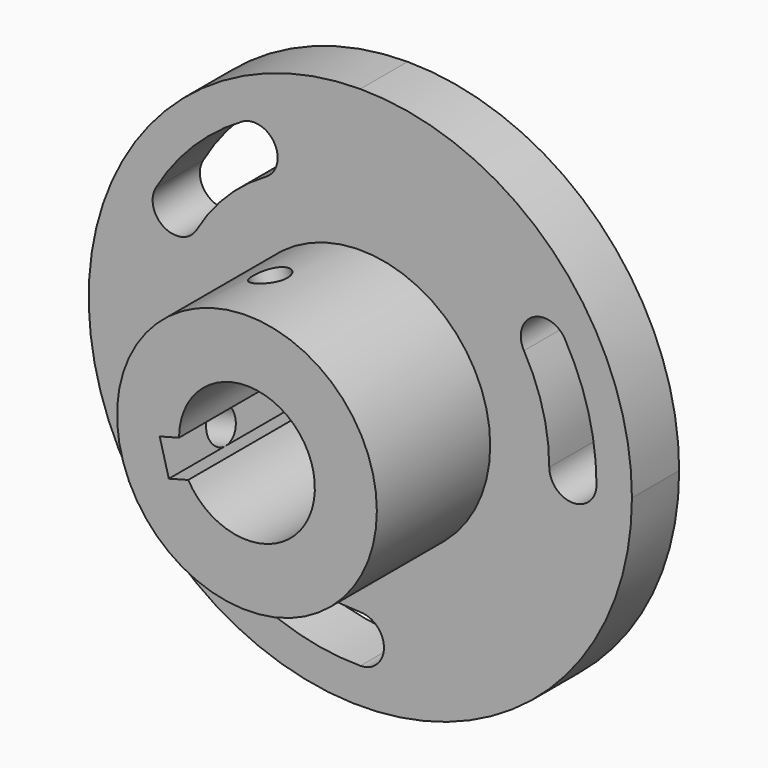
from build123d import *

# Parameters (mm, degrees)
F1_DEPTH    = 15.875
F2_R        = 34.925
F3_DEPTH    = 38.1
F3_FACE_R   = 34.925
F3_FACE_R_2 = 18.25625
F5_DEPTH    = 76.2
F6_R        = 4.7625
F7_DEPTH    = 25.4
F8_R        = 4.7625
F9_DEPTH    = 50.8


with BuildPart() as f1:
    # F0 (on Front) → F1 (new body)
    with BuildSketch(Plane.XZ):
        with BuildLine():
            ThreePointArc((0, 73.025), (-51.6364726961, -51.6364726961), (73.025, 0))
            ThreePointArc((73.025, 0), (51.6364726961, 51.6364726961), (0, 73.025))
        make_face()
        with BuildLine():
            ThreePointArc((-31.75, -54.9926131403), (-34.074261314, -46.3183518263), (-25.4, -43.9940905122))
            ThreePointArc((-25.4, -43.9940905122), (-13.1480074912, -49.0690319755), (0, -50.8))
            ThreePointArc((0, -50.8), (6.35, -57.15), (0, -63.5))
            ThreePointArc((0, -63.5), (-16.435009364, -61.3362899694), (-31.75, -54.9926131403))
        make_face(mode=Mode.SUBTRACT)
        with BuildLine():
            ThreePointArc((-31.75, 54.9926131403), (-23.075738686, 52.6683518263), (-25.4, 43.9940905122))
            ThreePointArc((-25.4, 43.9940905122), (-35.9210244843, 35.9210244843), (-43.9940905122, 25.4))
            ThreePointArc((-43.9940905122, 25.4), (-52.6683518263, 23.075738686), (-54.9926131403, 31.75))
            ThreePointArc((-54.9926131403, 31.75), (-44.9012806053, 44.9012806053), (-31.75, 54.9926131403))
        make_face(mode=Mode.SUBTRACT)
        with BuildLine():
            ThreePointArc((18.25625, 0), (-12.909118174, -12.909118174), (0, 18.25625))
            ThreePointArc((0, 18.25625), (9.128125, 15.8103762778), (15.8103762778, 9.128125))
            ThreePointArc((15.8103762778, 9.128125), (17.6341833662, 4.7250651922), (18.25625, 0))
        make_face(mode=Mode.SUBTRACT)
        with BuildLine():
            ThreePointArc((50.8, 0), (49.0690319755, 13.1480074912), (43.9940905122, 25.4))
            ThreePointArc((43.9940905122, 25.4), (46.3183518263, 34.074261314), (54.9926131403, 31.75))
            ThreePointArc((54.9926131403, 31.75), (61.3362899694, 16.435009364), (63.5, 0))
            ThreePointArc((63.5, 0), (57.15, -6.35), (50.8, 0))
        make_face(mode=Mode.SUBTRACT)
    extrude(amount=F1_DEPTH)

    # F2 (on face) → F3 (join)
    with BuildSketch(Plane.XZ.offset(15.875)):
        Circle(F2_R)
        with BuildLine():
            ThreePointArc((-18.25625, 0), (0, 18.25625), (18.25625, 0))
            ThreePointArc((18.25625, 0), (0, -18.25625), (-18.25625, 0))
        make_face(mode=Mode.SUBTRACT)
    extrude(amount=F3_DEPTH)

    # F4 (on Front) + F3_face (on face) → F5 (cut)
    with BuildSketch(Plane.XZ):
        with BuildLine():
            ThreePointArc((-15.7909574359, -9.1616771019), (4.7437852698, -17.6291566836), (18.25625, 0))
            ThreePointArc((18.25625, 0), (18.1000652505, 2.3829187967), (17.6341833662, 4.7250651922))
            Line((17.6341833662, 4.7250651922), (-13.0339616185, -3.4924394899))
            Line((-13.0339616185, -3.4924394899), (-11.8013359162, -8.0926612376))
            Line((-11.8013359162, -8.0926612376), (-15.7909574359, -9.1616771019))
        make_face()
        with BuildLine():
            Line((-13.0339616185, -3.4924394899), (17.6341833662, 4.7250651922))
            ThreePointArc((17.6341833662, 4.7250651922), (-2.363700072, 18.1025850649), (-18.2562088405, 0.0387663935))
            Line((-18.2562088405, 0.0387663935), (-14.2665873208, 1.1077822578))
            Line((-14.2665873208, 1.1077822578), (-13.0339616185, -3.4924394899))
        make_face()
        with BuildLine():
            Line((-21.0017794116, -10.5579126422), (-15.7909574359, -9.1616771019))
            ThreePointArc((-15.7909574359, -9.1616771019), (-16.8591485764, -7.0042682232), (-17.6341833662, -4.7250651922))
            Line((-17.6341833662, -4.7250651922), (-22.2344051139, -5.9576908945))
            Line((-22.2344051139, -5.9576908945), (-21.0017794116, -10.5579126422))
        make_face()
        with BuildLine():
            ThreePointArc((-17.6341833662, -4.7250651922), (-16.8591485764, -7.0042682232), (-15.7909574359, -9.1616771019))
            Line((-15.7909574359, -9.1616771019), (-11.8013359162, -8.0926612376))
            Line((-11.8013359162, -8.0926612376), (-13.0339616185, -3.4924394899))
            Line((-13.0339616185, -3.4924394899), (-17.6341833662, -4.7250651922))
        make_face()
        with BuildLine():
            Line((-14.2665873208, 1.1077822578), (-18.2562088405, 0.0387663935))
            ThreePointArc((-18.2562088405, 0.0387663935), (-18.1025850649, -2.363700072), (-17.6341833662, -4.7250651922))
            Line((-17.6341833662, -4.7250651922), (-13.0339616185, -3.4924394899))
            Line((-13.0339616185, -3.4924394899), (-14.2665873208, 1.1077822578))
        make_face()
        with BuildLine():
            ThreePointArc((-17.6341833662, -4.7250651922), (-18.1025850649, -2.363700072), (-18.2562088405, 0.0387663935))
            Line((-18.2562088405, 0.0387663935), (-18.8668090685, -0.1248434445))
            Line((-18.8668090685, -0.1248434445), (-17.6341833662, -4.7250651922))
        make_face()
        Polygon((-22.2344051139, -5.9576908945), (-17.6341833662, -4.7250651922), (-18.8668090685, -0.1248434445), (-23.4670308162, -1.3574691468), align=None)
        with BuildLine():
            Line((-14.2665873208, 1.1077822578), (-18.2562088405, 0.0387663935))
            ThreePointArc((-18.2562088405, 0.0387663935), (-18.1025850649, -2.363700072), (-17.6341833662, -4.7250651922))
            Line((-17.6341833662, -4.7250651922), (-13.0339616185, -3.4924394899))
            Line((-13.0339616185, -3.4924394899), (-14.2665873208, 1.1077822578))
        make_face()
        with BuildLine():
            ThreePointArc((-17.6341833662, -4.7250651922), (-16.8591485764, -7.0042682232), (-15.7909574359, -9.1616771019))
            Line((-15.7909574359, -9.1616771019), (-11.8013359162, -8.0926612376))
            Line((-11.8013359162, -8.0926612376), (-13.0339616185, -3.4924394899))
            Line((-13.0339616185, -3.4924394899), (-17.6341833662, -4.7250651922))
        make_face()
    with BuildSketch(Plane.XZ.offset(53.975)):
        Circle(F3_FACE_R)
        Circle(F3_FACE_R_2, mode=Mode.SUBTRACT)
    extrude(amount=F5_DEPTH, mode=Mode.SUBTRACT)

    # F6 (on face) → F7 (cut)
    with BuildSketch(Plane(origin=(-22.2344051139, 0, -5.9576908945), x_dir=(0, 1, 0), z_dir=(0.9659258263, 0, 0.2588190451))):
        with Locations((-34.925, 0)):
            Circle(F6_R)
    extrude(amount=-F7_DEPTH, mode=Mode.SUBTRACT)

    # F8 (on face) → F9 (cut)
    with BuildSketch(Plane(origin=(-1.2326257023, 0, 4.6002217477), x_dir=(0.9659258263, 0, 0.2588190451), z_dir=(0.2588190451, 0, -0.9659258263))):
        with Locations((0, 34.925)):
            Circle(F8_R)
    extrude(amount=-F9_DEPTH, mode=Mode.SUBTRACT)


solid = f1.part
